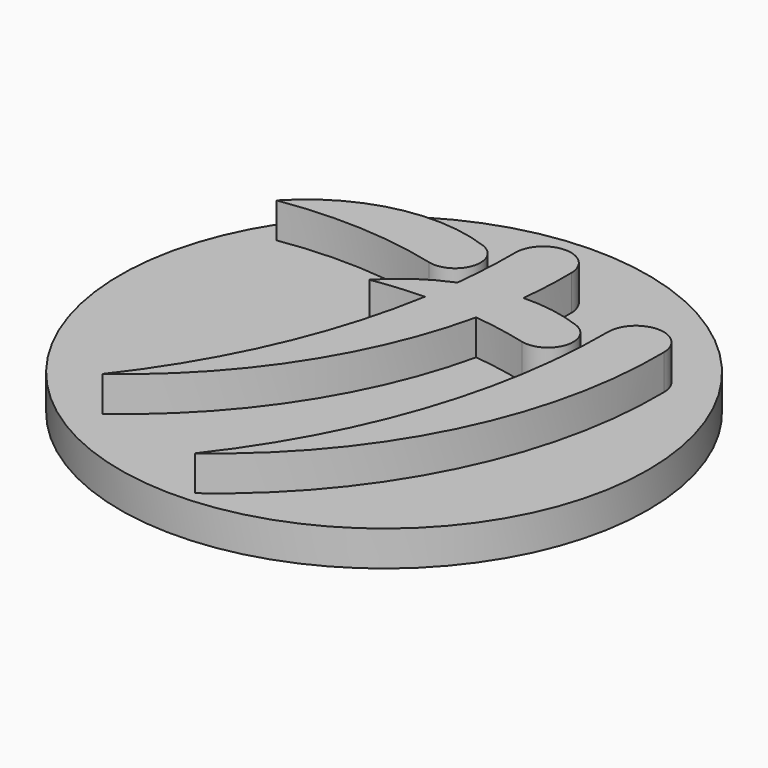
from build123d import *

# Parameters (mm, degrees)
F0_R     = 15
F1_DEPTH = 2
F3_DEPTH = 2


with BuildPart() as f1:
    # F0 (on Top) → F1 (new body)
    with BuildSketch(Plane.XY):
        Circle(F0_R)
    extrude(amount=F1_DEPTH)

    # F2 (on face) → F3 (join)
    with BuildSketch(Plane.XY.offset(2)):
        with BuildLine():
            ThreePointArc((-11.658853, 6.935612), (-7.132737, 7.1853), (-2.649061, 6.518432))
            ThreePointArc((-2.649061, 6.518432), (-0.916188, 7.486954), (-1.790806, 9.269067))
            ThreePointArc((-1.790806, 9.269067), (-7.078127, 9.596414), (-11.658853, 6.935612))
        make_face()
        with BuildLine():
            ThreePointArc((2.752731, 6.455697), (2.882497, 8.058589), (2.909441, 9.6665))
            ThreePointArc((2.909441, 9.6665), (1.314728, 11.221448), (-0.248597, 9.634947))
            ThreePointArc((-0.248597, 9.634947), (-0.29574, 7.705033), (-0.45524, 5.781143))
            ThreePointArc((-0.45524, 5.781143), (-2.191095, 4.842409), (-3.684971, 3.552933))
            ThreePointArc((-3.684971, 3.552933), (-2.214478, 3.73532), (-0.735143, 3.820066))
            ThreePointArc((-0.735143, 3.820066), (-3.092594, -3.950169), (-7.269774, -10.913309))
            ThreePointArc((-7.269774, -10.913309), (-1.185509, -4.467947), (2.281617, 3.689258))
            ThreePointArc((2.281617, 3.689258), (3.812787, 3.465108), (5.324822, 3.135752))
            ThreePointArc((5.324822, 3.135752), (7.057695, 4.104274), (6.183076, 5.886387))
            ThreePointArc((6.183076, 5.886387), (4.495229, 6.335689), (2.752731, 6.455697))
        make_face()
        with BuildLine():
            ThreePointArc((0.704108, -14.295988), (8.282362, -5.237022), (10.883323, 6.28382))
            ThreePointArc((10.883323, 6.28382), (9.288611, 7.838769), (7.725285, 6.252267))
            ThreePointArc((7.725285, 6.252267), (5.946495, -4.613602), (0.704108, -14.295988))
        make_face()
    extrude(amount=F3_DEPTH)


solid = f1.part
